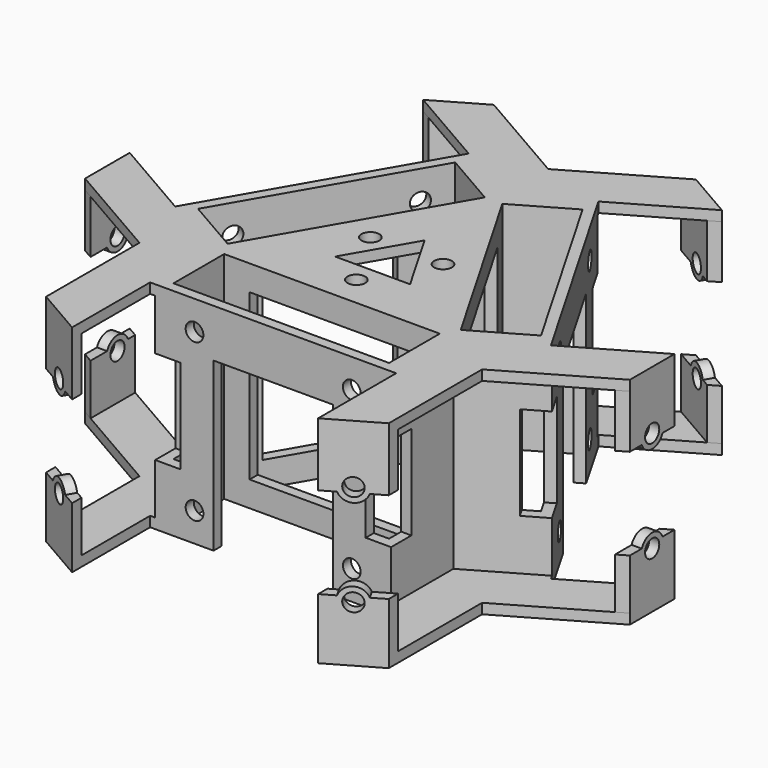
from build123d import *

# Parameters (mm, degrees)
SKETCH_W        = 42.5
SKETCH_H        = 12.5
PAD_DEPTH       = 42.5
SKETCH001_R     = 1.75
SKETCH001_W     = 5
SKETCH001_H     = 18.5
SKETCH001_W_2   = 23.5
SKETCH001_H_2   = 33
POCKET_DEPTH    = 5
SKETCH002_R     = 1.75
SKETCH002_W     = 5
SKETCH002_H     = 18.5
SKETCH002_W_2   = 23.5
SKETCH002_H_2   = 33
POCKET001_DEPTH = 5
SKETCH003_R     = 1.75
SKETCH003_W     = 5
SKETCH003_H     = 18.5
SKETCH003_W_2   = 23.5
SKETCH003_H_2   = 33
POCKET002_DEPTH = 5
SKETCH004_W     = 32.5
SKETCH004_H     = 32.5
POCKET003_DEPTH = 2
SKETCH005_W     = 32.5
SKETCH005_H     = 32.5
POCKET004_DEPTH = 2
SKETCH006_W     = 32.5
SKETCH006_H     = 32.5
POCKET005_DEPTH = 2
SKETCH007_R     = 1.75
PAD001_DEPTH    = 2
PAD002_DEPTH    = 2
PAD003_DEPTH    = 42.5
SKETCH010_R     = 1.75
POCKET006_DEPTH = 5
SKETCH011_R     = 1.75
POCKET007_DEPTH = 5
SKETCH012_R     = 1.75
POCKET008_DEPTH = 5
SKETCH013_R     = 1.75
POCKET009_DEPTH = 5
SKETCH014_R     = 1.75
POCKET010_DEPTH = 5
SKETCH015_R     = 1.75
POCKET011_DEPTH = 5


with BuildPart() as part:
    # Sketch → Pad (new body)
    with BuildSketch(Plane.XY):
        Polygon((23.25, -28.7686932203), (-23.25, -28.7686932203), (-23.25, -13.4233937587), (-36.5394191624, -5.7507440278), (-13.2894191624, 34.5194372481), (0, 26.8467875173), (13.2894191624, 34.5194372481), (36.5394191624, -5.7507440278), (23.25, -13.4233937587), align=None)
        Polygon((0, 24.5373864406), (-21.25, -12.2686932203), (21.25, -12.2686932203), align=None, mode=Mode.SUBTRACT)
        with Locations((0, -20.5186932203)):
            Rectangle(SKETCH_W, SKETCH_H, mode=Mode.SUBTRACT)
        Polygon((-22.9820508076, -11.2686932203), (-33.8073683549, -5.0186932203), (-12.5573683549, 31.7873864406), (-1.7320508076, 25.5373864406), align=None, mode=Mode.SUBTRACT)
        Polygon((22.9820508076, -11.2686932203), (1.7320508076, 25.5373864406), (12.5573683549, 31.7873864406), (33.8073683549, -5.0186932203), align=None, mode=Mode.SUBTRACT)
    extrude(amount=PAD_DEPTH)

    # Sketch001 (on Face1 of Pad) → Pocket (cut)
    with BuildSketch(Plane.XZ.offset(28.7686932203)):
        with Locations((-15.5, 5.75)):
            Circle(SKETCH001_R)
        with Locations((-15.5, 36.75)):
            Circle(SKETCH001_R)
        with Locations((15.5, 36.75)):
            Circle(SKETCH001_R)
        with Locations((15.5, 5.75)):
            Circle(SKETCH001_R)
        with Locations((-20.75, 21.25)):
            Rectangle(SKETCH001_W, SKETCH001_H)
        with Locations((20.75, 21.25)):
            Rectangle(SKETCH001_W, SKETCH001_H)
        with Locations((0, 16.5)):
            Rectangle(SKETCH001_W_2, SKETCH001_H_2)
    extrude(amount=-POCKET_DEPTH, mode=Mode.SUBTRACT)

    # Sketch002 (on Face20 of Pocket) → Pocket001 (cut)
    with BuildSketch(Plane(origin=(24.9144191624, 14.3843466101, 0), x_dir=(-0.5, 0.8660254038, 0), z_dir=(0.8660254038, 0.5, 0))):
        with Locations((-15.5, 36.75)):
            Circle(SKETCH002_R)
        with Locations((-15.5, 5.75)):
            Circle(SKETCH002_R)
        with Locations((15.5, 36.75)):
            Circle(SKETCH002_R)
        with Locations((15.5, 5.75)):
            Circle(SKETCH002_R)
        with Locations((-20.75, 21.25)):
            Rectangle(SKETCH002_W, SKETCH002_H)
        with Locations((20.75, 21.25)):
            Rectangle(SKETCH002_W, SKETCH002_H)
        with Locations((0, 16.5)):
            Rectangle(SKETCH002_W_2, SKETCH002_H_2)
    extrude(amount=-POCKET001_DEPTH, mode=Mode.SUBTRACT)

    # Sketch003 (on Face29 of Pocket001) → Pocket002 (cut)
    with BuildSketch(Plane(origin=(-24.9144191624, 14.3843466101, 0), x_dir=(-0.5, -0.8660254038, 0), z_dir=(-0.8660254038, 0.5, 0))):
        with Locations((-15.5, 36.75)):
            Circle(SKETCH003_R)
        with Locations((15.5, 36.75)):
            Circle(SKETCH003_R)
        with Locations((-15.5, 5.75)):
            Circle(SKETCH003_R)
        with Locations((15.5, 5.75)):
            Circle(SKETCH003_R)
        with Locations((-20.75, 21.25)):
            Rectangle(SKETCH003_W, SKETCH003_H)
        with Locations((20.75, 21.25)):
            Rectangle(SKETCH003_W, SKETCH003_H)
        with Locations((0, 16.5)):
            Rectangle(SKETCH003_W_2, SKETCH003_H_2)
    extrude(amount=-POCKET002_DEPTH, mode=Mode.SUBTRACT)

    # Sketch004 (on Face32 of Pocket002) → Pocket003 (cut)
    with BuildSketch(Plane(origin=(-12.3570508076, 7.1343466101, 0), x_dir=(-0.5, -0.8660254038, 0), z_dir=(-0.8660254038, 0.5, 0))):
        with Locations((0, 21.25)):
            Rectangle(SKETCH004_W, SKETCH004_H)
    extrude(amount=-POCKET003_DEPTH, mode=Mode.SUBTRACT)

    # Sketch005 (on Face38 of Pocket003) → Pocket004 (cut)
    with BuildSketch(Plane.XZ.offset(14.2686932203)):
        with Locations((0, 21.25)):
            Rectangle(SKETCH005_W, SKETCH005_H)
    extrude(amount=-POCKET004_DEPTH, mode=Mode.SUBTRACT)

    # Sketch006 (on Face23 of Pocket004) → Pocket005 (cut)
    with BuildSketch(Plane(origin=(12.3570508076, 7.1343466101, 0), x_dir=(-0.5, 0.8660254038, 0), z_dir=(0.8660254038, 0.5, 0))):
        with Locations((0, 21.25)):
            Rectangle(SKETCH006_W, SKETCH006_H)
    extrude(amount=-POCKET005_DEPTH, mode=Mode.SUBTRACT)

    # Sketch007 (on Face10 of Pocket005) → Pad001 (join)
    with BuildSketch(Plane.XY.offset(42.5)):
        Polygon((-23.25, -28.7686932203), (-24.25, -28.7686932203), (-24.25, -48.0022320835), (-33.7762793763, -42.5022319705), (-33.7762793763, -19.5007440655), (-53.6961523871, -8.0000000206), (-53.6961523871, 2.9999999794), (-37.0394191624, -6.6167694316), (-36.5394191624, -5.7507440278), (-23.25, -13.4233937587), align=None)
        Polygon((0, 26.8467875173), (-13.2894191624, 34.5194372481), (-12.7894191624, 35.3854626519), (-29.4461523749, 45.002232056), (-19.9198729556, 50.5022320946), (0, 39.0014880815), (19.9198729596, 50.502232107), (29.4461523702, 45.0022320532), (12.7894191624, 35.3854626519), (13.2894191624, 34.5194372481), align=None)
        Polygon((23.25, -13.4233937587), (23.25, -28.7686932203), (24.25, -28.7686932203), (24.25, -48.0022368591), (33.7762717942, -42.5022236133), (33.7762717942, -19.5007484431), (53.6961523871, -8.0000000206), (53.6961523871, 2.9999999794), (37.0394191624, -6.6167694316), (36.5394191624, -5.7507440278), align=None)
        Polygon((21.25, -12.2686932203), (0, 24.5373864406), (-21.25, -12.2686932203), align=None)
        with Locations((-7.1608983849, 4.1343466101)):
            Circle(SKETCH007_R, mode=Mode.SUBTRACT)
        with Locations((7.1608983849, 4.1343466101)):
            Circle(SKETCH007_R, mode=Mode.SUBTRACT)
        with Locations((0, -8.2686932203)):
            Circle(SKETCH007_R, mode=Mode.SUBTRACT)
        Polygon((0, 8.5373864406), (-7.3935935394, -4.2686932203), (7.3935935394, -4.2686932203), align=None, mode=Mode.SUBTRACT)
    extrude(amount=-PAD001_DEPTH)

    # Sketch008 (on Face2 of Pad001) → Pad002 (join)
    with BuildSketch(Plane(origin=(0, 0, 0), x_dir=(1, 0, 0), z_dir=(0, 0, -1))):
        Polygon((-23.25, 13.4233937587), (-23.25, 28.7686932203), (-24.25, 28.7686932203), (-24.25, 48.0022320835), (-33.7762793763, 42.5022319705), (-33.7762793763, 19.5007440655), (-53.6961523871, 8.0000000206), (-53.6961523871, -2.9999999794), (-37.0394191624, 6.6167694316), (-36.5394191624, 5.7507440278), align=None)
        Polygon((23.25, 13.4233937587), (23.25, 28.7686932203), (24.25, 28.7686932203), (24.25, 48.0022368591), (33.7762717942, 42.5022236133), (33.7762717942, 19.5007484431), (53.6961523871, 8.0000000206), (53.6961523871, -2.9999999794), (37.0394191624, 6.6167694316), (36.5394191624, 5.7507440278), align=None)
        Polygon((0, -26.8467875173), (13.2894191624, -34.5194372481), (12.7894191624, -35.3854626519), (29.4461523702, -45.0022320532), (19.9198729596, -50.502232107), (0, -39.0014880815), (-19.9198729556, -50.5022320946), (-29.4461523749, -45.002232056), (-12.7894191624, -35.3854626519), (-13.2894191624, -34.5194372481), align=None)
    extrude(amount=-PAD002_DEPTH)

    # Sketch009 (on Face55 of Pad002) → Pad003 (join)
    with BuildSketch(Plane.XY.offset(42.5)):
        Polygon((-53.6961523871, 2.9999999794), (-51.6961523871, 1.8452994411), (-51.6961523871, -9.1547005589), (-53.6961523871, -8.0000000206), align=None)
        Polygon((-29.4461523749, 45.002232056), (-19.9198729556, 50.5022320946), (-17.9198729603, 49.347531559), (-27.4461523796, 43.8475315203), align=None)
        Polygon((19.9198729596, 50.502232107), (29.4461523702, 45.0022320532), (27.4461523767, 43.8475315186), (17.919872967, 49.3475315719), align=None)
        Polygon((53.6961523871, 2.9999999794), (53.6961523871, -8.0000000206), (51.6961523871, -9.1547005589), (51.6961523871, 1.8452994411), align=None)
        Polygon((33.7762717942, -42.5022236133), (24.25, -48.0022368591), (24.25, -45.6928339284), (33.7762717942, -40.1928206826), align=None)
        Polygon((-24.25, -48.0022320835), (-24.25, -45.692830991), (-33.7762793763, -40.1928308779), (-33.7762793763, -42.5022319705), align=None)
    extrude(amount=-PAD003_DEPTH)

    # Sketch010 (on Face209 of Pad003) → Pocket006 (cut)
    with BuildSketch(Plane(origin=(-26.8480767455, -46.502231734, 0), x_dir=(0.8660253978, -0.5000000103, 0), z_dir=(-0.5000000103, -0.8660253978, 0))):
        with Locations((-2.4999993627, 31)):
            Circle(SKETCH010_R)
        with Locations((-2.4999993627, 11)):
            Circle(SKETCH010_R)
        with BuildLine():
            ThreePointArc((-5.0617370541, 30), (-2.4999993627, 28.25), (0.0617383288, 30))
            Line((0.0617383288, 30), (3.0000006373, 30.0000000001))
            Line((3.0000006373, 30.0000000001), (3.0000006373, 12))
            Line((3.0000006373, 12), (0.0617383288, 12))
            ThreePointArc((0.0617383288, 12), (-2.4999993627, 13.75), (-5.0617370541, 12))
            Line((-5.0617370541, 12), (-9.1546999327, 12))
            Line((-9.1546999327, 12), (-9.1546999327, 30))
            Line((-9.1546999327, 30), (-5.0617370541, 30))
        make_face()
    extrude(amount=-POCKET006_DEPTH, mode=Mode.SUBTRACT)

    # Sketch011 (on Face222 of Pocket006) → Pocket007 (cut)
    with BuildSketch(Plane(origin=(26.8481408522, -46.5021947219, 0), x_dir=(0.8660247086, 0.5000012042, 0), z_dir=(0.5000012042, -0.8660247086, 0))):
        with Locations((2.4999229508, 31)):
            Circle(SKETCH011_R)
        with Locations((2.4999229508, 11)):
            Circle(SKETCH011_R)
        with BuildLine():
            ThreePointArc((-0.0618147407, 30), (2.4999229508, 28.25), (5.0616606423, 30))
            Line((5.0616606423, 30), (9.1546271971, 30))
            Line((9.1546271971, 30), (9.1546271971, 12))
            Line((9.1546271971, 12), (5.0616606423, 12))
            ThreePointArc((5.0616606423, 12), (2.4999229508, 13.75), (-0.0618147407, 12))
            Line((-0.0618147407, 12), (-3.0000770492, 12))
            Line((-3.0000770492, 12), (-3.0000770492, 30))
            Line((-3.0000770492, 30), (-0.0618147407, 30))
        make_face()
    extrude(amount=-POCKET007_DEPTH, mode=Mode.SUBTRACT)

    # Sketch012 (on Face232 of Pocket007) → Pocket008 (cut)
    with BuildSketch(Plane.YZ.offset(53.6961523871)):
        with Locations((-2.5000000206, 31)):
            Circle(SKETCH012_R)
        with Locations((-2.5000000206, 11)):
            Circle(SKETCH012_R)
        with BuildLine():
            ThreePointArc((-5.061737712, 30), (-2.5000000206, 28.25), (0.0617376709, 30))
            Line((0.0617376709, 30), (2.9999999794, 30))
            Line((2.9999999794, 30), (2.9999999794, 12))
            Line((2.9999999794, 12), (0.0617376709, 12))
            ThreePointArc((0.0617376709, 12), (-2.5000000206, 13.75), (-5.061737712, 12))
            Line((-5.061737712, 12), (-9.1547005589, 12))
            Line((-9.1547005589, 12), (-9.1547005589, 30))
            Line((-9.1547005589, 30), (-5.061737712, 30))
        make_face()
    extrude(amount=-POCKET008_DEPTH, mode=Mode.SUBTRACT)

    # Sketch013 (on Face239 of Pocket008) → Pocket009 (cut)
    with BuildSketch(Plane(origin=(26.8480764562, 46.502231901, 0), x_dir=(-0.866025401, 0.5000000049, 0), z_dir=(0.5000000049, 0.866025401, 0))):
        with Locations((2.5000003337, 31)):
            Circle(SKETCH013_R)
        with Locations((2.5000003337, 11)):
            Circle(SKETCH013_R)
        with BuildLine():
            ThreePointArc((-0.0617373578, 30), (2.5000003337, 28.25), (5.0617380251, 30))
            Line((5.0617380251, 30), (9.154700856, 30))
            Line((9.154700856, 30), (9.154700856, 12))
            Line((9.154700856, 12), (5.0617380251, 12))
            ThreePointArc((5.0617380251, 12), (2.5000003337, 13.75), (-0.0617373578, 12))
            Line((-0.0617373578, 12), (-2.9999996663, 12))
            Line((-2.9999996663, 12), (-2.9999996663, 30))
            Line((-2.9999996663, 30), (-0.0617373578, 30))
        make_face()
    extrude(amount=-POCKET009_DEPTH, mode=Mode.SUBTRACT)

    # Sketch014 (on Face242 of Pocket009) → Pocket010 (cut)
    with BuildSketch(Plane(origin=(-53.6961523871, 0, 0), x_dir=(0, -1, 0), z_dir=(-1, 0, 0))):
        with Locations((2.5000000206, 31)):
            Circle(SKETCH014_R)
        with Locations((2.5000000206, 11)):
            Circle(SKETCH014_R)
        with BuildLine():
            ThreePointArc((-0.0617376709, 30), (2.5000000206, 28.25), (5.061737712, 30))
            Line((5.061737712, 30), (9.1547005589, 30))
            Line((9.1547005589, 30), (9.1547005589, 12))
            Line((9.1547005589, 12), (5.061737712, 12))
            ThreePointArc((5.061737712, 12), (2.5000000206, 13.75), (-0.0617376709, 12))
            Line((-0.0617376709, 12), (-2.9999999794, 12))
            Line((-2.9999999794, 12), (-2.9999999794, 30))
            Line((-2.9999999794, 30), (-0.0617376709, 30))
        make_face()
    extrude(amount=-POCKET010_DEPTH, mode=Mode.SUBTRACT)

    # Sketch015 (on Face248 of Pocket010) → Pocket011 (cut)
    with BuildSketch(Plane(origin=(-26.8480763824, 46.5022319437, 0), x_dir=(-0.8660254018, -0.5000000035, 0), z_dir=(-0.5000000035, 0.8660254018, 0))):
        with Locations((-2.5000002457, 31)):
            Circle(SKETCH015_R)
        with Locations((-2.5000002457, 11)):
            Circle(SKETCH015_R)
        with BuildLine():
            ThreePointArc((-5.0617379372, 30), (-2.5000002457, 28.25), (0.0617374458, 30))
            Line((0.0617374458, 30), (2.9999997543, 30))
            Line((2.9999997543, 30), (2.9999997543, 12))
            Line((2.9999997543, 12), (0.0617374458, 12))
            ThreePointArc((0.0617374458, 12), (-2.5000002457, 13.75), (-5.0617379372, 12))
            Line((-5.0617379372, 12), (-9.1547007732, 12))
            Line((-9.1547007732, 12), (-9.1547007732, 30))
            Line((-9.1547007732, 30), (-5.0617379372, 30))
        make_face()
    extrude(amount=-POCKET011_DEPTH, mode=Mode.SUBTRACT)


solid = part.part
